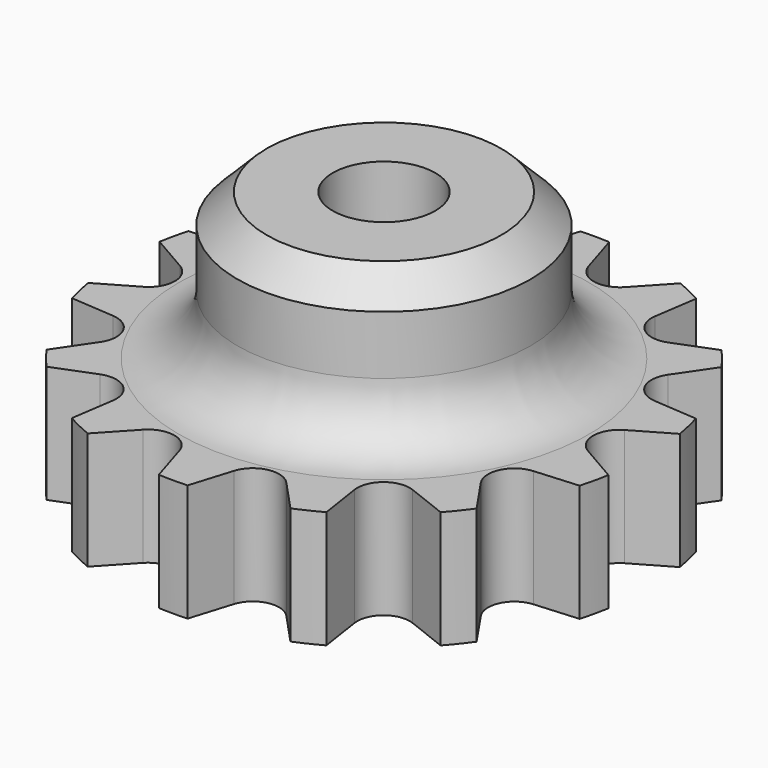
from build123d import *

# Parameters (mm, degrees)
F2_R     = 1.75
F3_DEPTH = 12.5
F5_R     = 2
F7_DEPTH = 10
F8_R     = 1.75
F9_DEPTH = 3
F10_SIZE = 1


with BuildPart() as f1:
    # F0 (on Front) → F1 (revolve)
    with BuildSketch(Plane.XZ):
        Polygon((-9, -6), (0, -6), (0, 3), (-5, 3), (-5, -2), (-9, -2), align=None)
    revolve(axis=Axis((0, 0, -1.5), (0, 0, 1)))


with BuildPart() as f3:
    # F2 (on Top) → F3 (new body, symmetric)
    with BuildSketch(Plane.XY):
        Circle(F2_R)
    extrude(amount=F3_DEPTH, both=True)


with BuildPart() as f1_1:
    add(f1.part)

    # F4: cut F3
    add(f3.part, mode=Mode.SUBTRACT)

    # F5
    f5_edges = [f1_1.edges().sort_by_distance(p)[0] for p in [
        (5, 0, -2),
    ]]
    fillet(f5_edges, radius=F5_R)

    # F6 (on Top) → F7 (cut)
    with BuildSketch(Plane.XY):
        with BuildLine():
            ThreePointArc((-7.5796, -0.775802), (-7.13169, 0), (-7.5796, 0.775802))
            Line((-7.5796, 0.775802), (-10.312837, 2.353838))
            Line((-10.312837, 2.353838), (-10.499112, 2.339878))
            Line((-10.499112, 2.339878), (-10.499112, -2.339878))
            Line((-10.499112, -2.339878), (-10.312837, -2.353838))
            Line((-10.312837, -2.353838), (-7.5796, -0.775802))
        make_face()
        with BuildLine():
            Line((-10.474608, 2.447236), (-10.312837, 2.353838))
            Line((-10.312837, 2.353838), (-7.165591, 2.589691))
            ThreePointArc((-7.165591, 2.589691), (-6.425431, 3.094324), (-6.492375, 3.987639))
            Line((-6.492375, 3.987639), (-8.270253, 6.595307))
            Line((-8.270253, 6.595307), (-8.444138, 6.663552))
            Line((-8.444138, 6.663552), (-10.474608, 2.447236))
        make_face()
        Polygon((-10.499112, 2.396354), (-10.474608, 2.447236), (-10.499112, 2.461384), align=None)
        Polygon((-10.527328, 2.337764), (-10.499112, 2.339878), (-10.499112, 2.396354), align=None)
        with BuildLine():
            Line((-7.165591, -2.589691), (-10.312837, -2.353838))
            Line((-10.312837, -2.353838), (-10.474608, -2.447236))
            Line((-10.474608, -2.447236), (-8.444138, -6.663552))
            Line((-8.444138, -6.663552), (-8.270253, -6.595307))
            Line((-8.270253, -6.595307), (-6.492375, -3.987639))
            ThreePointArc((-6.492375, -3.987639), (-6.425431, -3.094324), (-7.165591, -2.589691))
        make_face()
        Polygon((-8.470477, 6.673889), (-8.444138, 6.663552), (-8.419634, 6.714434), align=None)
        Polygon((-10.499112, -2.396354), (-10.499112, -2.339878), (-10.527328, -2.337764), align=None)
        Polygon((-10.499112, -2.461384), (-10.474608, -2.447236), (-10.499112, -2.396354), align=None)
        with BuildLine():
            Line((-8.37548, 6.749646), (-8.270253, 6.595307))
            Line((-8.270253, 6.595307), (-5.33235, 5.442265))
            ThreePointArc((-5.33235, 5.442265), (-4.446536, 5.57578), (-4.119256, 6.409674))
            Line((-4.119256, 6.409674), (-4.589644, 9.530495))
            Line((-4.589644, 9.530495), (-4.716699, 9.667427))
            Line((-4.716699, 9.667427), (-8.37548, 6.749646))
        make_face()
        Polygon((-8.391419, 6.773024), (-8.419634, 6.714434), (-8.37548, 6.749646), align=None)
        Polygon((-8.419634, -6.714434), (-8.444138, -6.663552), (-8.470477, -6.673889), align=None)
        Polygon((-8.37548, -6.749646), (-8.419634, -6.714434), (-8.391419, -6.773024), align=None)
        with BuildLine():
            Line((-5.33235, -5.442265), (-8.270253, -6.595307))
            Line((-8.270253, -6.595307), (-8.37548, -6.749646))
            Line((-8.37548, -6.749646), (-4.716699, -9.667427))
            Line((-4.716699, -9.667427), (-4.589644, -9.530495))
            Line((-4.589644, -9.530495), (-4.119256, -6.409674))
            ThreePointArc((-4.119256, -6.409674), (-4.446536, -5.57578), (-5.33235, -5.442265))
        make_face()
        Polygon((-4.735944, 9.688168), (-4.716699, 9.667427), (-4.672544, 9.702639), align=None)
        with BuildLine():
            Line((-4.617485, 9.715206), (-4.589644, 9.530495))
            Line((-4.589644, 9.530495), (-2.442971, 7.216931))
            ThreePointArc((-2.442971, 7.216931), (-1.58695, 6.952884), (-0.930268, 7.562195))
            Line((-0.930268, 7.562195), (0, 10.578051))
            Line((0, 10.578051), (-0.055059, 10.756549))
            Line((-0.055059, 10.756549), (-4.617485, 9.715206))
        make_face()
        Polygon((-4.621702, 9.743184), (-4.672544, 9.702639), (-4.617485, 9.715206), align=None)
        Polygon((-4.672544, -9.702639), (-4.716699, -9.667427), (-4.735944, -9.688168), align=None)
        Polygon((-4.617485, -9.715206), (-4.672544, -9.702639), (-4.621702, -9.743184), align=None)
        with BuildLine():
            Line((-2.442971, -7.216931), (-4.589644, -9.530495))
            Line((-4.589644, -9.530495), (-4.617485, -9.715206))
            Line((-4.617485, -9.715206), (-0.055059, -10.756549))
            Line((-0.055059, -10.756549), (0, -10.578051))
            Line((0, -10.578051), (-0.930268, -7.562195))
            ThreePointArc((-0.930268, -7.562195), (-1.58695, -6.952884), (-2.442971, -7.216931))
        make_face()
        Polygon((-0.063399, 10.783587), (-0.055059, 10.756549), (0, 10.769116), align=None)
        with BuildLine():
            Line((0.055059, 10.756549), (0, 10.578051))
            Line((0, 10.578051), (0.930268, 7.562195))
            ThreePointArc((0.930268, 7.562195), (1.58695, 6.952884), (2.442971, 7.216931))
            Line((2.442971, 7.216931), (4.589644, 9.530495))
            Line((4.589644, 9.530495), (4.617485, 9.715206))
            Line((4.617485, 9.715206), (0.055059, 10.756549))
        make_face()
        Polygon((0.063399, 10.783587), (0, 10.769116), (0.055059, 10.756549), align=None)
        Polygon((0, -10.769116), (-0.055059, -10.756549), (-0.063399, -10.783587), align=None)
        Polygon((0.055059, -10.756549), (0, -10.769116), (0.063399, -10.783587), align=None)
        with BuildLine():
            Line((0.930268, -7.562195), (0, -10.578051))
            Line((0, -10.578051), (0.055059, -10.756549))
            Line((0.055059, -10.756549), (4.617485, -9.715206))
            Line((4.617485, -9.715206), (4.589644, -9.530495))
            Line((4.589644, -9.530495), (2.442971, -7.216931))
            ThreePointArc((2.442971, -7.216931), (1.58695, -6.952884), (0.930268, -7.562195))
        make_face()
        Polygon((4.621702, 9.743184), (4.617485, 9.715206), (4.672544, 9.702639), align=None)
        with BuildLine():
            Line((4.716699, 9.667427), (4.589644, 9.530495))
            Line((4.589644, 9.530495), (4.119256, 6.409674))
            ThreePointArc((4.119256, 6.409674), (4.446536, 5.57578), (5.33235, 5.442265))
            Line((5.33235, 5.442265), (8.270253, 6.595307))
            Line((8.270253, 6.595307), (8.37548, 6.749646))
            Line((8.37548, 6.749646), (4.716699, 9.667427))
        make_face()
        Polygon((4.735944, 9.688168), (4.672544, 9.702639), (4.716699, 9.667427), align=None)
        Polygon((4.672544, -9.702639), (4.617485, -9.715206), (4.621702, -9.743184), align=None)
        Polygon((4.716699, -9.667427), (4.672544, -9.702639), (4.735944, -9.688168), align=None)
        with BuildLine():
            Line((4.119256, -6.409674), (4.589644, -9.530495))
            Line((4.589644, -9.530495), (4.716699, -9.667427))
            Line((4.716699, -9.667427), (8.37548, -6.749646))
            Line((8.37548, -6.749646), (8.270253, -6.595307))
            Line((8.270253, -6.595307), (5.33235, -5.442265))
            ThreePointArc((5.33235, -5.442265), (4.446536, -5.57578), (4.119256, -6.409674))
        make_face()
        Polygon((8.391419, 6.773024), (8.37548, 6.749646), (8.419634, 6.714434), align=None)
        with BuildLine():
            Line((8.444138, 6.663552), (8.270253, 6.595307))
            Line((8.270253, 6.595307), (6.492375, 3.987639))
            ThreePointArc((6.492375, 3.987639), (6.425431, 3.094324), (7.165591, 2.589691))
            Line((7.165591, 2.589691), (10.312837, 2.353838))
            Line((10.312837, 2.353838), (10.474608, 2.447236))
            Line((10.474608, 2.447236), (8.444138, 6.663552))
        make_face()
        Polygon((8.470477, 6.673889), (8.419634, 6.714434), (8.444138, 6.663552), align=None)
        Polygon((8.419634, -6.714434), (8.37548, -6.749646), (8.391419, -6.773024), align=None)
        Polygon((8.444138, -6.663552), (8.419634, -6.714434), (8.470477, -6.673889), align=None)
        with BuildLine():
            Line((6.492375, -3.987639), (8.270253, -6.595307))
            Line((8.270253, -6.595307), (8.444138, -6.663552))
            Line((8.444138, -6.663552), (10.474608, -2.447236))
            Line((10.474608, -2.447236), (10.312837, -2.353838))
            Line((10.312837, -2.353838), (7.165591, -2.589691))
            ThreePointArc((7.165591, -2.589691), (6.425431, -3.094324), (6.492375, -3.987639))
        make_face()
        Polygon((10.499112, 2.461384), (10.474608, 2.447236), (10.499112, 2.396354), align=None)
        with BuildLine():
            Line((10.499112, 2.339878), (10.312837, 2.353838))
            Line((10.312837, 2.353838), (7.5796, 0.775802))
            ThreePointArc((7.5796, 0.775802), (7.13169, 0), (7.5796, -0.775802))
            Line((7.5796, -0.775802), (10.312837, -2.353838))
            Line((10.312837, -2.353838), (10.499112, -2.339878))
            Line((10.499112, -2.339878), (10.499112, 2.339878))
        make_face()
        Polygon((10.527328, 2.337764), (10.499112, 2.396354), (10.499112, 2.339878), align=None)
        Polygon((10.499112, -2.396354), (10.474608, -2.447236), (10.499112, -2.461384), align=None)
        Polygon((10.499112, -2.339878), (10.499112, -2.396354), (10.527328, -2.337764), align=None)
    extrude(amount=-F7_DEPTH, mode=Mode.SUBTRACT)

    # F8 (on face) → F9 (cut)
    with BuildSketch(Plane(origin=(0, 0, -6), x_dir=(1, 0, 0), z_dir=(0, 0, -1))):
        Polygon((-1.529978, -2.65), (1.529978, -2.65), (3.059956, 0), (1.529978, 2.65), (-1.529978, 2.65), (-3.059956, 0), align=None)
        Circle(F8_R, mode=Mode.SUBTRACT)
    extrude(amount=-F9_DEPTH, mode=Mode.SUBTRACT)

    # F10
    f10_edges = [f1_1.edges().sort_by_distance(p)[0] for p in [
        (5, 0, 3),
    ]]
    chamfer(f10_edges, length=F10_SIZE)


solid = f1_1.part
